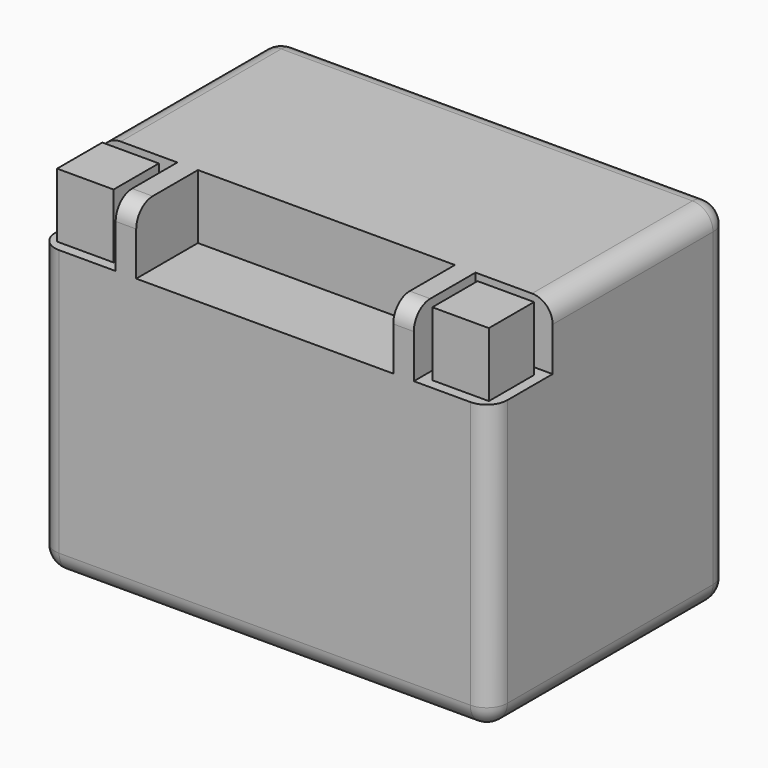
from build123d import *

# Parameters (mm, degrees)
F0_W     = 111.76
F0_H     = 73.66
F1_DEPTH = 86.868
F2_W     = 19.05
F2_H     = 19.05
F2_W_2   = 13.97
F2_H_2   = 13.97
F2_W_3   = 63.5
F3_DEPTH = 15.875
F4_R     = 5.08
F5_R     = 5.08


with BuildPart() as f1:
    # F0 (on Top) → F1 (new body)
    with BuildSketch(Plane.XY):
        Rectangle(F0_W, F0_H)
    extrude(amount=F1_DEPTH)

    # F2 (on face) → F3 (cut)
    with BuildSketch(Plane.XY.offset(86.868)):
        with Locations((-46.355, -27.305)):
            Rectangle(F2_W, F2_H)
        with Locations((-46.355, -27.305)):
            Rectangle(F2_W_2, F2_H_2, mode=Mode.SUBTRACT)
        with Locations((0, -27.305)):
            Rectangle(F2_W_3, F2_H)
        with Locations((46.355, -27.305)):
            Rectangle(F2_W, F2_H)
        with Locations((46.355, -27.305)):
            Rectangle(F2_W_2, F2_H_2, mode=Mode.SUBTRACT)
    extrude(amount=-F3_DEPTH, mode=Mode.SUBTRACT)

    # F4
    f4_edges = [f1.edges().sort_by_distance(p)[0] for p in [
        (34.29, -36.83, 86.868),
        (-34.29, -36.83, 86.868),
        (55.88, 9.525, 86.868),
        (0, 36.83, 86.868),
        (-55.88, 9.525, 86.868),
        (-55.88, -36.83, 35.4965),
        (55.88, -36.83, 35.4965),
        (55.88, 36.83, 43.434),
        (-55.88, 36.83, 43.434),
    ]]
    fillet(f4_edges, radius=F4_R)

    # F5
    f5_edges = [f1.edges().sort_by_distance(p)[0] for p in [
        (55.88, 0, 0),
        (54.392102, -35.342102, 0),
        (54.392102, 35.342102, 0),
        (0, -36.83, 0),
        (0, 36.83, 0),
        (-54.392102, -35.342102, 0),
        (-54.392102, 35.342102, 0),
        (-55.88, 0, 0),
    ]]
    fillet(f5_edges, radius=F5_R)


solid = f1.part
